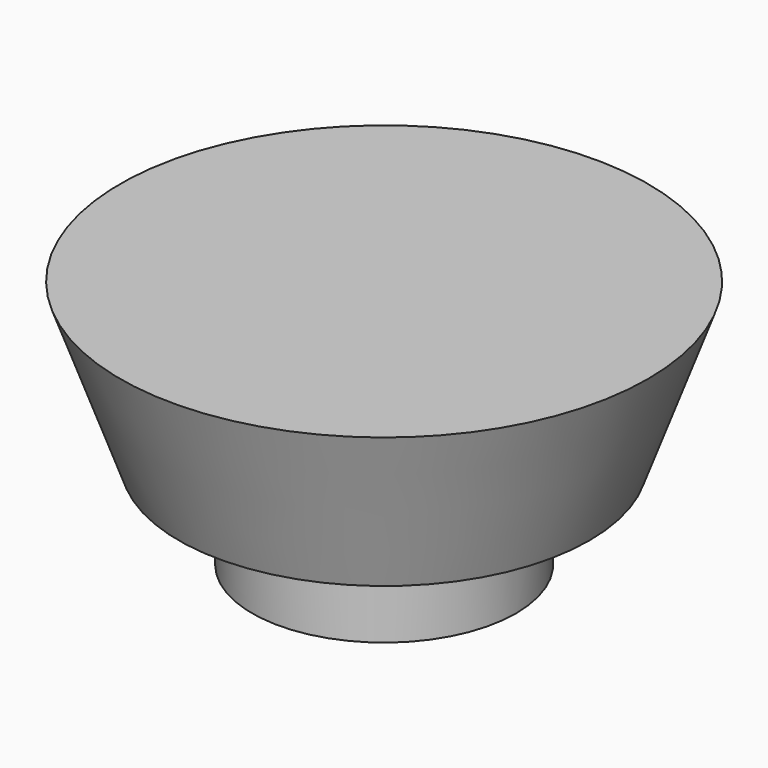
from build123d import *

# Parameters (mm, degrees)
F0_R     = 18
F2_R     = 14
F4_R     = 9
F5_DEPTH = 6


with BuildPart() as f3:
    # F0 (on Top) → F3 section 0
    with BuildSketch(Plane.XY):
        Circle(F0_R)
    # F2 (on offset) → F3 section 1
    with BuildSketch(Plane.XY.offset(-11)):
        Circle(F2_R)
    loft()

    # F4 (on face) → F5 (join)
    with BuildSketch(Plane(origin=(0, 0, -11), x_dir=(1, 0, 0), z_dir=(0, 0, -1))):
        Circle(F4_R)
    extrude(amount=F5_DEPTH)


solid = f3.part
